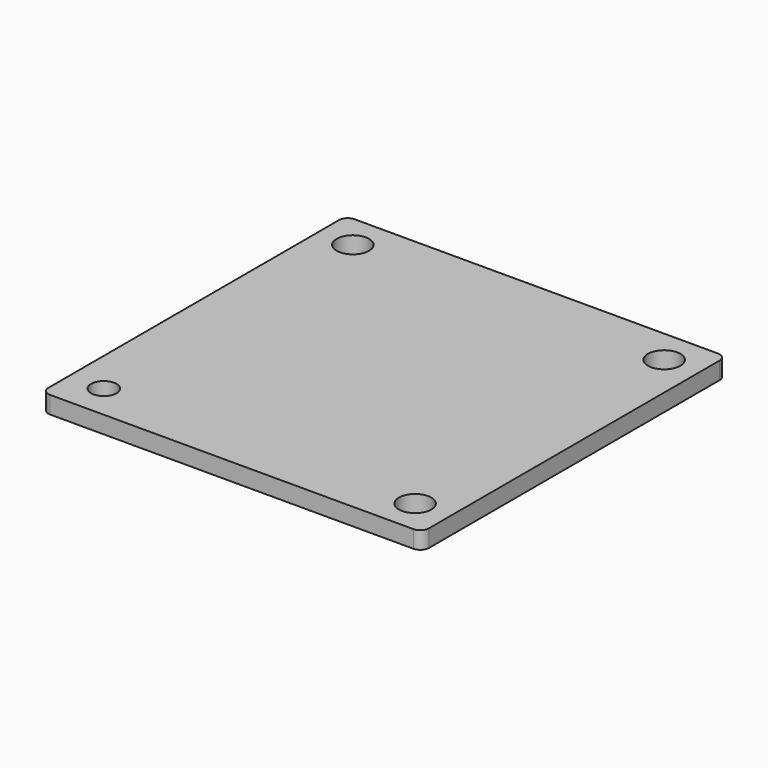
from build123d import *

# Parameters (mm, degrees)
F0_W     = 139.7
F0_H     = 139.7
F0_R     = 5.953125
F1_DEPTH = 6.35
F3_D     = 9.3472
F4_R     = 3.175
F5_R     = 3.175
F6_R     = 3.175
F7_R     = 3.175


with BuildPart() as f1:
    # F0 (on Top) → F1 (new body)
    with BuildSketch(Plane.XY):
        Rectangle(F0_W, F0_H)
        with Locations((-57.15, -57.15)):
            Circle(F0_R, mode=Mode.SUBTRACT)
        with Locations((57.15, -57.15)):
            Circle(F0_R, mode=Mode.SUBTRACT)
        with Locations((-57.15, 57.15)):
            Circle(F0_R, mode=Mode.SUBTRACT)
        with Locations((57.15, 57.15)):
            Circle(F0_R, mode=Mode.SUBTRACT)
        with Locations((-57.15, -57.15)):
            Circle(F0_R)
    extrude(amount=F1_DEPTH)

    # F3 (through all)
    with Locations(Plane.XY.offset(6.35)):
        with Locations((-57.15, -57.15)):
            Hole(F3_D / 2)

    # F4
    f4_edges = [f1.edges().sort_by_distance(p)[0] for p in [
        (-69.85, 69.85, 3.175),
    ]]
    fillet(f4_edges, radius=F4_R)

    # F5
    f5_edges = [f1.edges().sort_by_distance(p)[0] for p in [
        (69.85, 69.85, 3.175),
    ]]
    fillet(f5_edges, radius=F5_R)

    # F6
    f6_edges = [f1.edges().sort_by_distance(p)[0] for p in [
        (69.85, -69.85, 3.175),
    ]]
    fillet(f6_edges, radius=F6_R)

    # F7
    f7_edges = [f1.edges().sort_by_distance(p)[0] for p in [
        (-69.85, -69.85, 3.175),
    ]]
    fillet(f7_edges, radius=F7_R)


solid = f1.part
